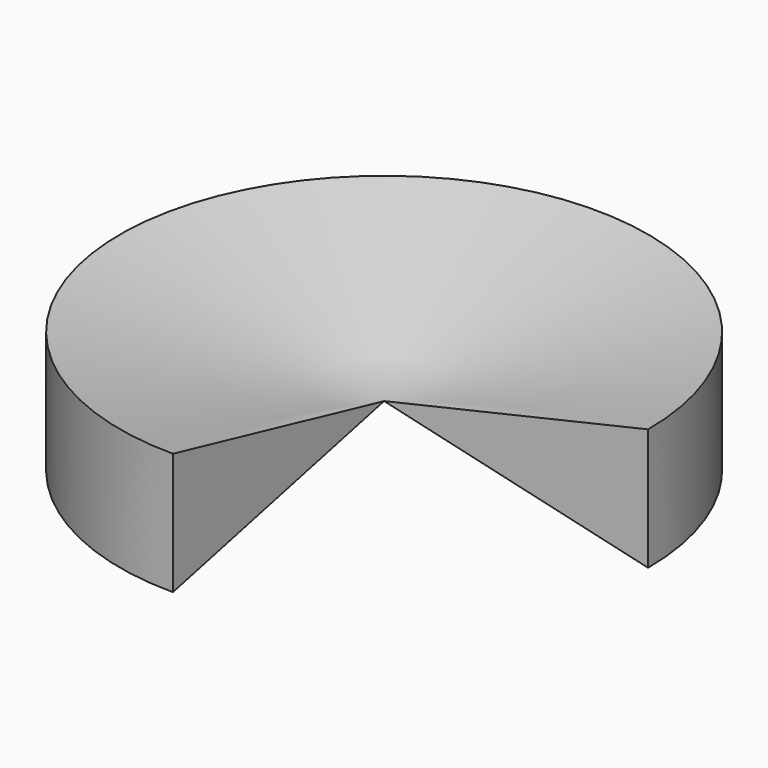
from build123d import *

# Parameters (mm, degrees)
F1_ANGLE = 270


with BuildPart() as f1:
    # F0 (on Front) → F1 (revolve)
    with BuildSketch(Plane.XZ):
        Polygon((3000, 1492.604573), (0, 800), (3000, 107.395427), align=None)
    revolve(axis=Axis((0, 0, 400), (0, 0, 1)), revolution_arc=F1_ANGLE)


solid = f1.part
